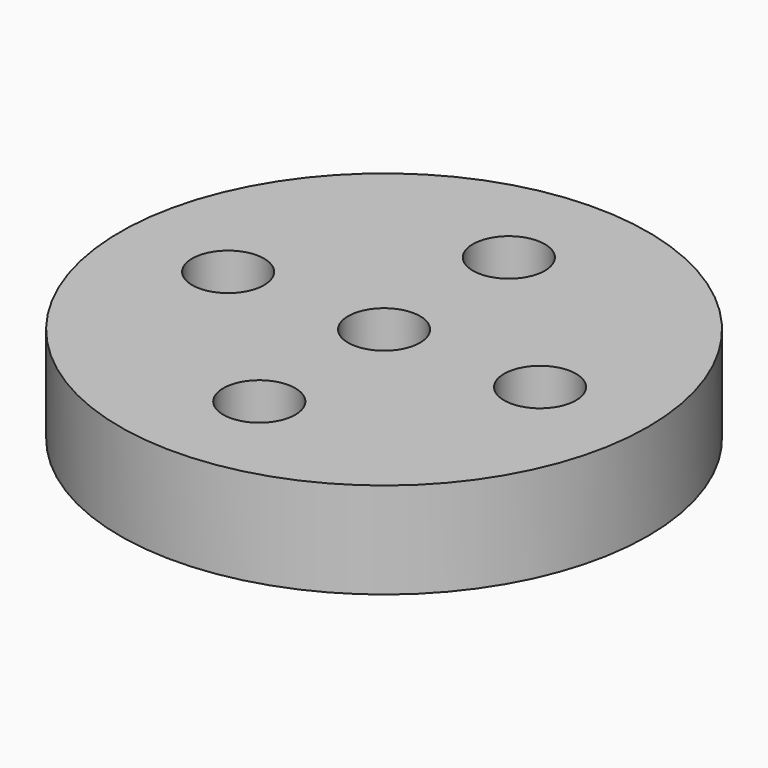
from build123d import *

# Parameters (mm, degrees)
F0_R     = 11
F1_DEPTH = 4
F2_R     = 1.5
F3_DEPTH = 4.001


with BuildPart() as f1:
    # F0 (on Top) → F1 (new body)
    with BuildSketch(Plane.XY):
        Circle(F0_R)
    extrude(amount=F1_DEPTH)

    # F2 (on face) → F3 (cut, through all)
    with BuildSketch(Plane.XY.offset(4)):
        Circle(F2_R)
        with Locations((-6.5, 0)):
            Circle(F2_R)
        with Locations((0, -6.5)):
            Circle(F2_R)
        with Locations((6.5, 0)):
            Circle(F2_R)
        with Locations((0, 6.5)):
            Circle(F2_R)
    extrude(amount=-F3_DEPTH, mode=Mode.SUBTRACT)


solid = f1.part
